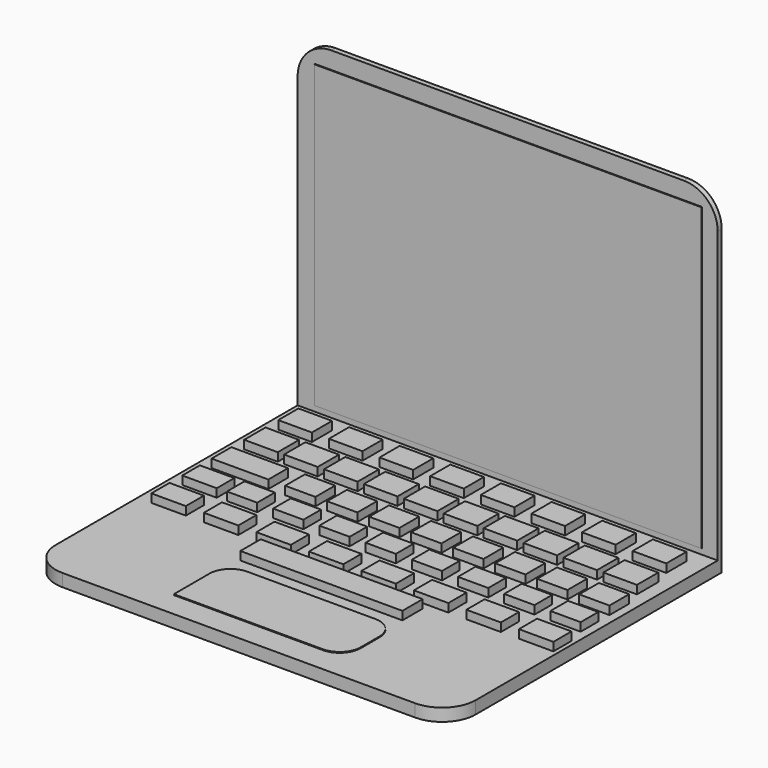
from build123d import *

# Parameters (mm, degrees)
F0_W      = 127
F0_H      = 101.6
F1_DEPTH  = 1.524
F2_W      = 127
F2_H      = 3.81
F3_DEPTH  = 101.6
F4_R      = 10.16
F5_W      = 117.037881
F5_H      = 90.802048
F6_DEPTH  = 0.254
F8_DEPTH  = 0.254
F9_W      = 10.16
F9_H      = 7.62
F9_H_2    = 8.063819
F9_W_2    = 48.987706
F9_H_3    = 7.660627
F9_W_3    = 17.145
F9_H_4    = 7.459033
F9_W_4    = 9.157966
F9_W_5    = 10.417032
F9_H_5    = 6.652653
F9_H_6    = 6.652649
F9_H_7    = 6.854244
F10_DEPTH = 0.0254
F12_DEPTH = 2.54
F13_R     = 15.334171
F14_DEPTH = 0.254


with BuildPart() as f1:
    # F0 (on Front) → F1 (new body)
    with BuildSketch(Plane.XZ):
        Rectangle(F0_W, F0_H)
    extrude(amount=F1_DEPTH)

    # F2 (on face) → F3 (join)
    with BuildSketch(Plane.XZ.offset(1.524)):
        with Locations((0, -48.895)):
            Rectangle(F2_W, F2_H)
    extrude(amount=F3_DEPTH)

    # F4
    f4_edges = [f1.edges().sort_by_distance(p)[0] for p in [
        (-63.5, -103.124, -48.895),
        (63.5, -103.124, -48.895),
        (-63.5, -0.762, 50.8),
        (63.5, -0.762, 50.8),
    ]]
    fillet(f4_edges, radius=F4_R)

    # F13 (on face) → F14 (join)
    with BuildSketch(Plane(origin=(0, 0, 0), x_dir=(-1, 0, 0), z_dir=(0, 1, 0))):
        Circle(F13_R)
    extrude(amount=F14_DEPTH)


with BuildPart() as f6:
    # F5 (on face) → F6 (new body)
    with BuildSketch(Plane.XZ.offset(1.524)):
        with Locations((0.279104, 0.186069)):
            Rectangle(F5_W, F5_H)
    extrude(amount=F6_DEPTH)


with BuildPart() as f8:
    # F7 (on face) → F8 (new body)
    with BuildSketch(Plane.XY.offset(-46.99)):
        with BuildLine():
            Line((-25.703426, -95.540166), (19.353426, -95.540166))
            ThreePointArc((19.353426, -95.540166), (23.843555, -93.680294), (25.703426, -89.190166))
            Line((25.703426, -89.190166), (25.703426, -82.076211))
            ThreePointArc((25.703426, -82.076211), (23.843555, -77.586083), (19.353426, -75.726211))
            Line((19.353426, -75.726211), (-19.353426, -75.726211))
            ThreePointArc((-19.353426, -75.726211), (-23.843555, -77.586083), (-25.703426, -82.076211))
            Line((-25.703426, -82.076211), (-25.703426, -95.540166))
        make_face()
    extrude(amount=F8_DEPTH)


with BuildPart() as f10:
    # F9 (on face) → F10 (new body)
    with BuildSketch(Plane.XY.offset(-46.99)):
        with Locations((-54.223942, -10.27077)):
            Rectangle(F9_W, F9_H)
        with Locations((-38.918495, -10.27077)):
            Rectangle(F9_W, F9_H)
        with Locations((-23.613047, -10.27077)):
            Rectangle(F9_W, F9_H)
        with Locations((-8.307599, -10.27077)):
            Rectangle(F9_W, F9_H)
        with Locations((6.997848, -10.27077)):
            Rectangle(F9_W, F9_H)
        with Locations((22.303296, -10.27077)):
            Rectangle(F9_W, F9_H)
        with Locations((37.608744, -10.27077)):
            Rectangle(F9_W, F9_H)
        with Locations((52.914191, -10.27077)):
            Rectangle(F9_W, F9_H)
        with Locations((-54.223942, -22.936988)):
            Rectangle(F9_W, F9_H_2)
        with Locations((0, -68.09438)):
            Rectangle(F9_W_2, F9_H_3)
        with Locations((-42.158942, -22.936988)):
            Rectangle(F9_W, F9_H_2)
        with Locations((-30.093942, -22.936988)):
            Rectangle(F9_W, F9_H_2)
        with Locations((-18.028942, -22.936988)):
            Rectangle(F9_W, F9_H_2)
        with Locations((-5.963942, -22.936988)):
            Rectangle(F9_W, F9_H_2)
        with Locations((6.101058, -22.936988)):
            Rectangle(F9_W, F9_H_2)
        with Locations((18.166058, -22.936988)):
            Rectangle(F9_W, F9_H_2)
        with Locations((30.231058, -22.936988)):
            Rectangle(F9_W, F9_H_2)
        with Locations((42.296058, -22.936988)):
            Rectangle(F9_W, F9_H_2)
        with Locations((54.361058, -22.936988)):
            Rectangle(F9_W, F9_H_2)
        with Locations((-50.731442, -35.536708)):
            Rectangle(F9_W_3, F9_H_4)
        with Locations((-32.499959, -35.536708)):
            Rectangle(F9_W_4, F9_H_4)
        with Locations((-19.799959, -35.536708)):
            Rectangle(F9_W_4, F9_H_4)
        with Locations((-7.099959, -35.536708)):
            Rectangle(F9_W_4, F9_H_4)
        with Locations((5.600041, -35.536708)):
            Rectangle(F9_W_4, F9_H_4)
        with Locations((18.300041, -35.536708)):
            Rectangle(F9_W_4, F9_H_4)
        with Locations((31.000041, -35.536708)):
            Rectangle(F9_W_4, F9_H_4)
        with Locations((43.700041, -35.536708)):
            Rectangle(F9_W_4, F9_H_4)
        with Locations((56.400041, -35.536708)):
            Rectangle(F9_W_4, F9_H_4)
        with Locations((-54.095426, -47.027651)):
            Rectangle(F9_W_5, F9_H_5)
        with Locations((56.400041, -46.826055)):
            Rectangle(F9_W_4, F9_H_6)
        with Locations((42.430041, -46.826055)):
            Rectangle(F9_W_4, F9_H_6)
        with Locations((28.460041, -46.826055)):
            Rectangle(F9_W_4, F9_H_6)
        with Locations((14.490041, -46.826055)):
            Rectangle(F9_W_4, F9_H_6)
        with Locations((0.520041, -46.826055)):
            Rectangle(F9_W_4, F9_H_6)
        with Locations((-13.449959, -46.826055)):
            Rectangle(F9_W_4, F9_H_6)
        with Locations((-27.419959, -46.826055)):
            Rectangle(F9_W_4, F9_H_6)
        with Locations((-41.389959, -46.826055)):
            Rectangle(F9_W_4, F9_H_6)
        with Locations((-54.095426, -58.619391)):
            Rectangle(F9_W_5, F9_H_7)
        with Locations((-38.220426, -58.619391)):
            Rectangle(F9_W_5, F9_H_7)
        with Locations((-22.345426, -58.619391)):
            Rectangle(F9_W_5, F9_H_7)
        with Locations((-6.470426, -58.619391)):
            Rectangle(F9_W_5, F9_H_7)
        with Locations((9.404574, -58.619391)):
            Rectangle(F9_W_5, F9_H_7)
        with Locations((25.279574, -58.619391)):
            Rectangle(F9_W_5, F9_H_7)
        with Locations((41.154574, -58.619391)):
            Rectangle(F9_W_5, F9_H_7)
        with Locations((57.029574, -58.619391)):
            Rectangle(F9_W_5, F9_H_7)
    extrude(amount=F10_DEPTH)


with BuildPart() as f12:
    # F9 (on face) → F12 (new body)
    with BuildSketch(Plane.XY.offset(-46.99)):
        with Locations((-54.223942, -10.27077)):
            Rectangle(F9_W, F9_H)
        with Locations((-38.918495, -10.27077)):
            Rectangle(F9_W, F9_H)
        with Locations((-23.613047, -10.27077)):
            Rectangle(F9_W, F9_H)
        with Locations((-8.307599, -10.27077)):
            Rectangle(F9_W, F9_H)
        with Locations((6.997848, -10.27077)):
            Rectangle(F9_W, F9_H)
        with Locations((22.303296, -10.27077)):
            Rectangle(F9_W, F9_H)
        with Locations((37.608744, -10.27077)):
            Rectangle(F9_W, F9_H)
        with Locations((52.914191, -10.27077)):
            Rectangle(F9_W, F9_H)
        with Locations((-54.223942, -22.936988)):
            Rectangle(F9_W, F9_H_2)
        with Locations((0, -68.09438)):
            Rectangle(F9_W_2, F9_H_3)
        with Locations((-42.158942, -22.936988)):
            Rectangle(F9_W, F9_H_2)
        with Locations((-30.093942, -22.936988)):
            Rectangle(F9_W, F9_H_2)
        with Locations((-18.028942, -22.936988)):
            Rectangle(F9_W, F9_H_2)
        with Locations((-5.963942, -22.936988)):
            Rectangle(F9_W, F9_H_2)
        with Locations((6.101058, -22.936988)):
            Rectangle(F9_W, F9_H_2)
        with Locations((18.166058, -22.936988)):
            Rectangle(F9_W, F9_H_2)
        with Locations((30.231058, -22.936988)):
            Rectangle(F9_W, F9_H_2)
        with Locations((42.296058, -22.936988)):
            Rectangle(F9_W, F9_H_2)
        with Locations((54.361058, -22.936988)):
            Rectangle(F9_W, F9_H_2)
        with Locations((-50.731442, -35.536708)):
            Rectangle(F9_W_3, F9_H_4)
        with Locations((-32.499959, -35.536708)):
            Rectangle(F9_W_4, F9_H_4)
        with Locations((-19.799959, -35.536708)):
            Rectangle(F9_W_4, F9_H_4)
        with Locations((-7.099959, -35.536708)):
            Rectangle(F9_W_4, F9_H_4)
        with Locations((5.600041, -35.536708)):
            Rectangle(F9_W_4, F9_H_4)
        with Locations((18.300041, -35.536708)):
            Rectangle(F9_W_4, F9_H_4)
        with Locations((31.000041, -35.536708)):
            Rectangle(F9_W_4, F9_H_4)
        with Locations((43.700041, -35.536708)):
            Rectangle(F9_W_4, F9_H_4)
        with Locations((56.400041, -35.536708)):
            Rectangle(F9_W_4, F9_H_4)
        with Locations((-54.095426, -47.027651)):
            Rectangle(F9_W_5, F9_H_5)
        with Locations((56.400041, -46.826055)):
            Rectangle(F9_W_4, F9_H_6)
        with Locations((42.430041, -46.826055)):
            Rectangle(F9_W_4, F9_H_6)
        with Locations((28.460041, -46.826055)):
            Rectangle(F9_W_4, F9_H_6)
        with Locations((14.490041, -46.826055)):
            Rectangle(F9_W_4, F9_H_6)
        with Locations((0.520041, -46.826055)):
            Rectangle(F9_W_4, F9_H_6)
        with Locations((-13.449959, -46.826055)):
            Rectangle(F9_W_4, F9_H_6)
        with Locations((-27.419959, -46.826055)):
            Rectangle(F9_W_4, F9_H_6)
        with Locations((-41.389959, -46.826055)):
            Rectangle(F9_W_4, F9_H_6)
        with Locations((-54.095426, -58.619391)):
            Rectangle(F9_W_5, F9_H_7)
        with Locations((-38.220426, -58.619391)):
            Rectangle(F9_W_5, F9_H_7)
        with Locations((-22.345426, -58.619391)):
            Rectangle(F9_W_5, F9_H_7)
        with Locations((-6.470426, -58.619391)):
            Rectangle(F9_W_5, F9_H_7)
        with Locations((9.404574, -58.619391)):
            Rectangle(F9_W_5, F9_H_7)
        with Locations((25.279574, -58.619391)):
            Rectangle(F9_W_5, F9_H_7)
        with Locations((41.154574, -58.619391)):
            Rectangle(F9_W_5, F9_H_7)
        with Locations((57.029574, -58.619391)):
            Rectangle(F9_W_5, F9_H_7)
    extrude(amount=F12_DEPTH)


solid = Compound([f1.part, f6.part, f8.part, f10.part, f12.part])
